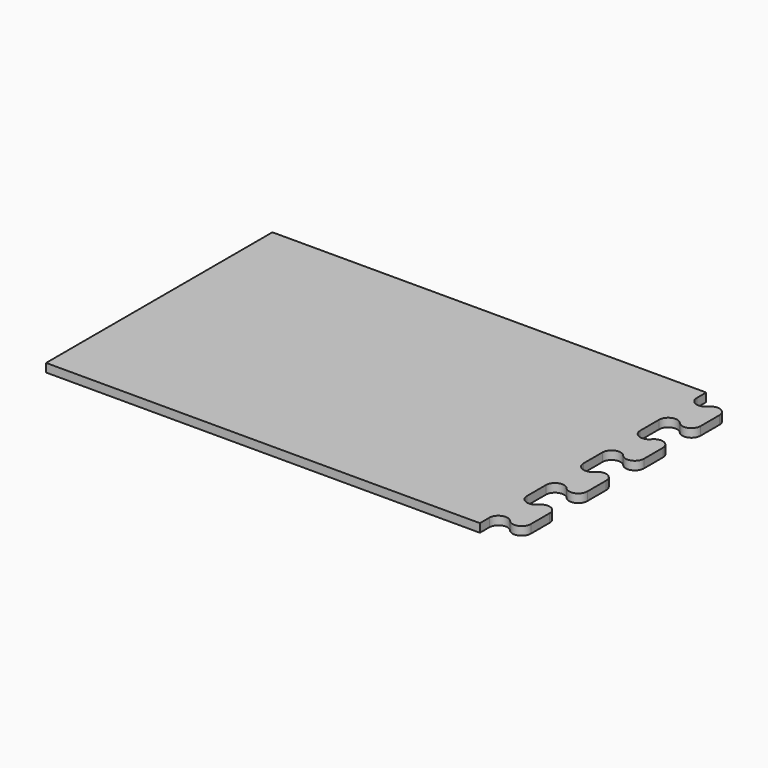
from build123d import *

# Parameters (mm, degrees)
F1_DEPTH = 18


with BuildPart() as f1:
    # F0 (on Top) → F1 (new body)
    with BuildSketch(Plane.XY):
        with BuildLine():
            Line((-1236.349664, 978.601654), (-2156.349664, 978.601634))
            Line((-2156.349664, 978.601634), (-2156.349664, 378.601634))
            Line((-2156.349664, 378.601634), (-1236.349664, 378.601654))
            Line((-1236.349664, 378.601654), (-1236.349664, 403.601654))
            ThreePointArc((-1236.349664, 403.601654), (-1223.725461, 421.699132), (-1202.381669, 416.101654))
            ThreePointArc((-1202.381669, 416.101654), (-1181.037877, 410.504177), (-1168.413673, 428.601654))
            Line((-1168.413673, 428.601654), (-1168.413673, 453.601654))
            Line((-1168.413673, 453.601654), (-1168.413673, 478.601654))
            ThreePointArc((-1168.413673, 478.601654), (-1181.037877, 496.699132), (-1202.381669, 491.101654))
            ThreePointArc((-1202.381669, 491.101654), (-1223.725461, 485.504177), (-1236.349664, 503.601654))
            Line((-1236.349664, 503.601654), (-1236.349664, 553.601654))
            ThreePointArc((-1236.349664, 553.601654), (-1223.725461, 571.699132), (-1202.381669, 566.101654))
            ThreePointArc((-1202.381669, 566.101654), (-1181.037877, 560.504177), (-1168.413673, 578.601654))
            Line((-1168.413673, 578.601654), (-1168.413673, 603.601654))
            Line((-1168.413673, 603.601654), (-1168.413673, 628.601654))
            ThreePointArc((-1168.413673, 628.601654), (-1181.037877, 646.699132), (-1202.381669, 641.101654))
            ThreePointArc((-1202.381669, 641.101654), (-1223.725461, 635.504177), (-1236.349664, 653.601654))
            Line((-1236.349664, 653.601654), (-1236.349664, 703.601654))
            ThreePointArc((-1236.349664, 703.601654), (-1223.725461, 721.699132), (-1202.381669, 716.101654))
            ThreePointArc((-1202.381669, 716.101654), (-1181.037877, 710.504177), (-1168.413673, 728.601654))
            Line((-1168.413673, 728.601654), (-1168.413673, 753.601654))
            Line((-1168.413673, 753.601654), (-1168.413673, 778.601654))
            ThreePointArc((-1168.413673, 778.601654), (-1181.037877, 796.699132), (-1202.381669, 791.101654))
            ThreePointArc((-1202.381669, 791.101654), (-1223.725461, 785.504177), (-1236.349664, 803.601654))
            Line((-1236.349664, 803.601654), (-1236.349664, 853.601654))
            ThreePointArc((-1236.349664, 853.601654), (-1223.725461, 871.699132), (-1202.381669, 866.101654))
            ThreePointArc((-1202.381669, 866.101654), (-1181.037877, 860.504177), (-1168.413673, 878.601654))
            Line((-1168.413673, 878.601654), (-1168.413673, 903.601654))
            Line((-1168.413673, 903.601654), (-1168.413673, 928.601654))
            ThreePointArc((-1168.413673, 928.601654), (-1181.037877, 946.699132), (-1202.381669, 941.101654))
            ThreePointArc((-1202.381669, 941.101654), (-1223.725461, 935.504177), (-1236.349664, 953.601654))
            Line((-1236.349664, 953.601654), (-1236.349664, 978.601654))
        make_face()
    extrude(amount=F1_DEPTH)


solid = f1.part
